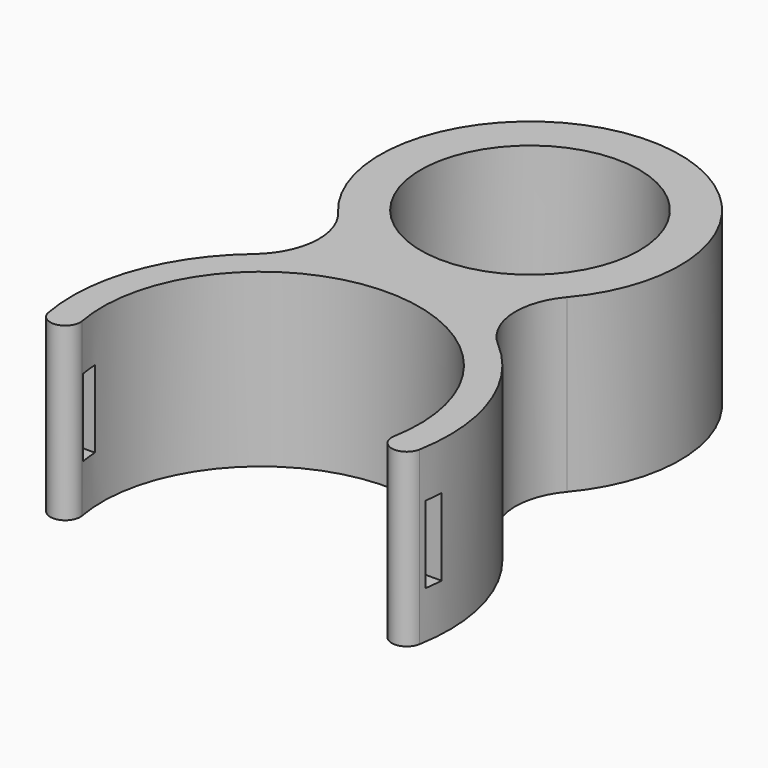
from build123d import *

# Parameters (mm, degrees)
SKETCH_R          = 12.75
PAD_DEPTH         = 20
SKETCH001_W       = 2.064916
SKETCH001_H       = 9
POCKET_DEPTH      = 22.001
POCKET_DEPTH_BACK = 22.001


with BuildPart() as part:
    # Sketch → Pad (new body)
    with BuildSketch(Plane.XY):
        with BuildLine():
            ThreePointArc((18.2, -21.818132), (0, 0), (-18.2, -21.818132))
            ThreePointArc((-21.643243, -22.445887), (-19.607744, -23.853631), (-18.2, -21.818132))
            ThreePointArc((-14.264293, -1.750971), (-20.722154, -11.111337), (-21.643243, -22.445887))
            ThreePointArc((-14.264293, -1.750971), (-11.495515, 3.655407), (-13.352959, 9.438568))
            ThreePointArc((13.352959, 9.438568), (0, 38.25), (-13.352959, 9.438568))
            ThreePointArc((13.352959, 9.438568), (11.495515, 3.655407), (14.264293, -1.750971))
            ThreePointArc((21.643243, -22.445887), (20.722154, -11.111337), (14.264293, -1.750971))
            ThreePointArc((18.2, -21.818132), (19.607744, -23.853631), (21.643243, -22.445887))
        make_face()
        with Locations((0, 20.75)):
            Circle(SKETCH_R, mode=Mode.SUBTRACT)
    extrude(amount=PAD_DEPTH)

    # Sketch001 → Pocket (cut, two sides)
    with BuildSketch(Plane.YZ) as pocket_sk:
        with Locations((-20.667451, 10)):
            Rectangle(SKETCH001_W, SKETCH001_H)
    extrude(amount=-POCKET_DEPTH, mode=Mode.SUBTRACT)
    extrude(pocket_sk.sketch, amount=POCKET_DEPTH_BACK, mode=Mode.SUBTRACT)


solid = part.part
